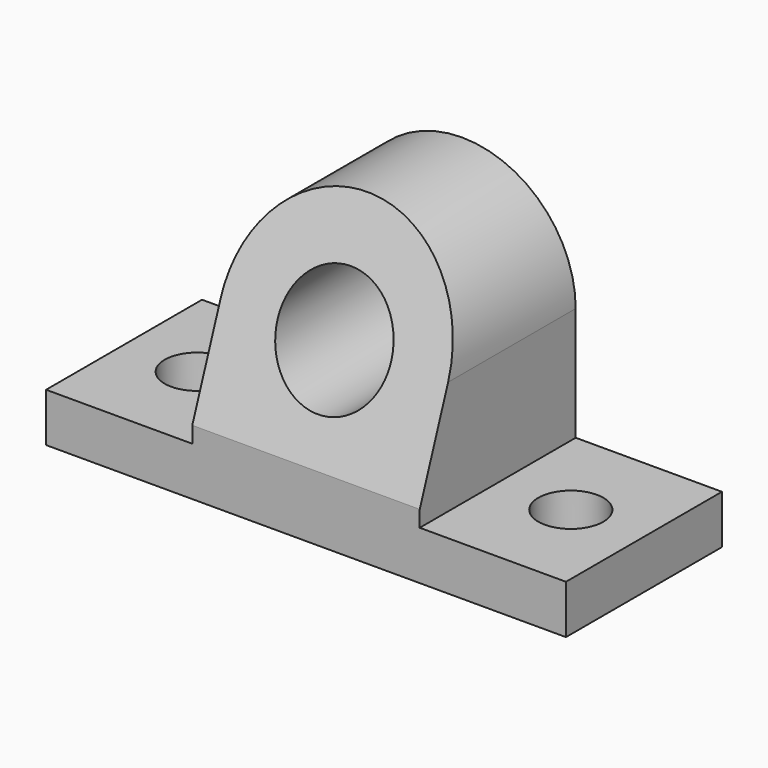
from build123d import *

# Parameters (mm, degrees)
SKETCH_W        = 160
SKETCH_H        = 60
PAD_DEPTH       = 15
SKETCH001_R     = 10
POCKET_DEPTH    = 15.001
SKETCH002_R     = 17.5
PAD001_DEPTH    = 30
POCKET001_DEPTH = 115.001


with BuildPart() as pocket:
    # Sketch → Pad (new body)
    with BuildSketch(Plane.XY):
        Rectangle(SKETCH_W, SKETCH_H)
    extrude(amount=PAD_DEPTH)

    # Sketch001 → Pocket (cut, through all)
    with BuildSketch(Plane.XY.offset(15)):
        with Locations((-57.5, 0)):
            Circle(SKETCH001_R)
        with Locations((57.5, 0)):
            Circle(SKETCH001_R)
    extrude(amount=-POCKET_DEPTH, mode=Mode.SUBTRACT)


with BuildPart() as pocket001:
    # Sketch002 → Pad001 (new body, symmetric)
    with BuildSketch(Plane.XZ):
        with BuildLine():
            ThreePointArc((35, 50), (0, 85), (-35, 50))
            Line((-35, 0), (-35, 50))
            Line((-35, 0), (35, 0))
            Line((35, 0), (35, 50))
        make_face()
        with Locations((0, 50)):
            Circle(SKETCH002_R, mode=Mode.SUBTRACT)
    extrude(amount=PAD001_DEPTH, both=True)

    # Fusion: union Pocket
    add(pocket.part)

    # Sketch003 → Pocket001 (cut, through all)
    with BuildSketch(Plane.YZ.offset(35)):
        Polygon((-30, 15), (-30, 95), (-2.638389, 95.17541), (-30, 20), align=None)
    extrude(amount=-POCKET001_DEPTH, mode=Mode.SUBTRACT)


solid = pocket001.part
